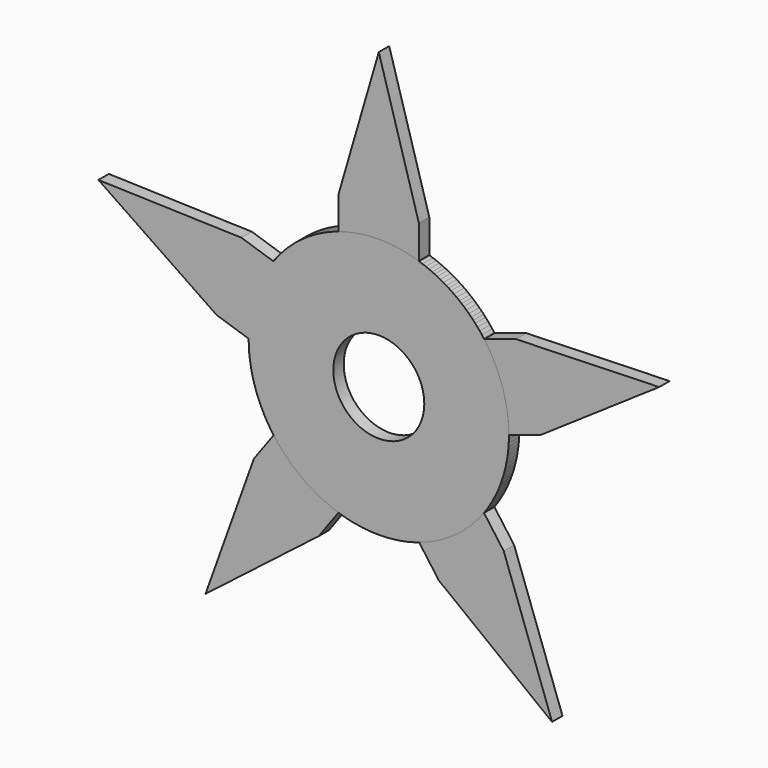
from build123d import *

# Parameters (mm, degrees)
F0_R     = 12.7
F1_DEPTH = 0.635
F2_W     = 7.815492
F2_H     = 5.961056
F3_DEPTH = 0.635
F4_COUNT = 5
F5_R     = 4.439905
F6_DEPTH = 0.635


with BuildPart() as f1:
    # F0 (on Front) → F1 (new body, symmetric)
    with BuildSketch(Plane.XZ):
        Circle(F0_R)
    extrude(amount=F1_DEPTH, both=True)

    # F2 (on Front) → F3 (join, symmetric)
    with BuildSketch(Plane.XZ):
        with Locations((0, 12.379177)):
            Rectangle(F2_W, F2_H)
        Polygon((-3.907746, 15.359705), (3.907746, 15.359705), (0, 28.765569), align=None)
    extrude(amount=F3_DEPTH, both=True)


with BuildPart() as f4_1:
    # F4: instance of F1
    add(f1.part.rotate(Axis((0, -0.635, 0), (0, 1, 0)), 1 * 360 / F4_COUNT))


with BuildPart() as f4_2:
    # F4: instance of F1
    add(f1.part.rotate(Axis((0, -0.635, 0), (0, 1, 0)), 2 * 360 / F4_COUNT))


with BuildPart() as f4_3:
    # F4: instance of F1
    add(f1.part.rotate(Axis((0, -0.635, 0), (0, 1, 0)), 3 * 360 / F4_COUNT))


with BuildPart() as f4_4:
    # F4: instance of F1
    add(f1.part.rotate(Axis((0, -0.635, 0), (0, 1, 0)), 4 * 360 / F4_COUNT))


with BuildPart() as f6_tool:
    # F5 (on Front) → F6 (new body, symmetric)
    with BuildSketch(Plane.XZ):
        Circle(F5_R)
    extrude(amount=F6_DEPTH, both=True)


with BuildPart() as f1_1:
    add(f1.part)

    # F6: cut by f6_tool
    add(f6_tool.part, mode=Mode.SUBTRACT)


with BuildPart() as f4_1_1:
    add(f4_1.part)

    # F6: cut by f6_tool
    add(f6_tool.part, mode=Mode.SUBTRACT)


with BuildPart() as f4_2_1:
    add(f4_2.part)

    # F6: cut by f6_tool
    add(f6_tool.part, mode=Mode.SUBTRACT)


with BuildPart() as f4_3_1:
    add(f4_3.part)

    # F6: cut by f6_tool
    add(f6_tool.part, mode=Mode.SUBTRACT)


with BuildPart() as f4_4_1:
    add(f4_4.part)

    # F6: cut by f6_tool
    add(f6_tool.part, mode=Mode.SUBTRACT)


solid = Compound([f1_1.part, f4_1_1.part, f4_2_1.part, f4_3_1.part, f4_4_1.part])
